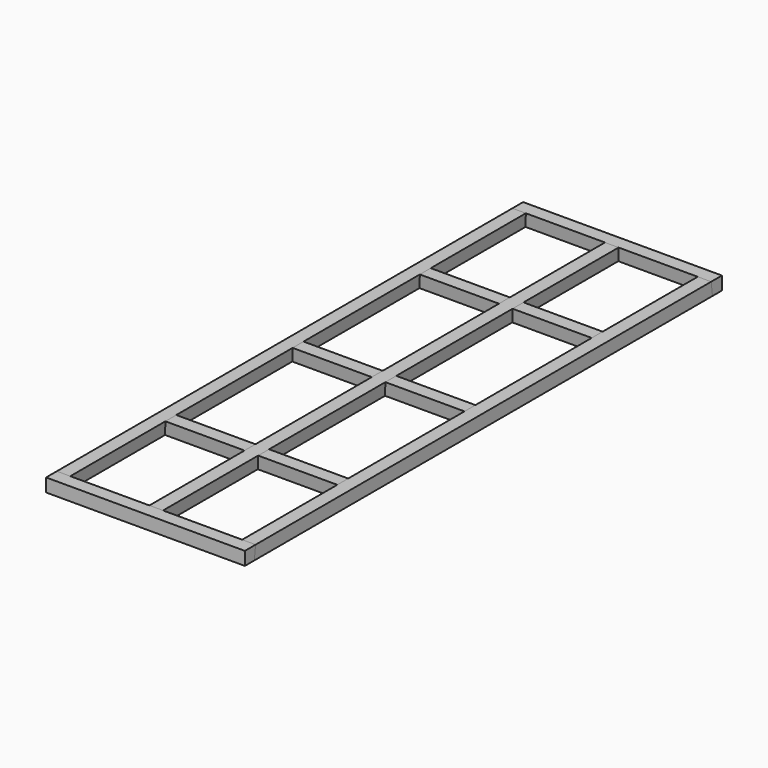
from build123d import *

# Parameters (mm, degrees)
F1_DEPTH  = 1800
F3_DEPTH  = 800
F4_DEPTH  = 600
F5_DEPTH  = 600
F6_DEPTH  = 800
F7_DEPTH  = 600
F8_DEPTH  = 1900
F9_DEPTH  = 1900
F10_DEPTH = 1900
F11_DEPTH = 800
F12_DEPTH = 1800
F13_DEPTH = 600


with BuildPart() as f1:
    # F0 (on Front) → F1 (new body)
    with BuildSketch(Plane.XZ):
        Polygon((-134.7514528915, 259.4524627924), (-170.3375428915, 259.4524627924), (-170.3375428915, 254.4524627924), (-130.3375428915, 254.4524627924), (-125.3375428915, 294.4524627924), (104.6624571085, 294.4524627924), (109.6624571085, 254.4524627924), (129.6624571085, 254.4524627924), (129.6624571085, 259.4524627924), (114.0763682012, 259.4524627924), (109.0763682012, 299.4524627924), (-129.7514517988, 299.4524627924), align=None)
        Polygon((-170.3375428915, 299.4524627924), (-170.3375428915, 259.4524627924), (-134.7514528915, 259.4524627924), (-129.7514517988, 299.4524627924), align=None)
        Polygon((150.2485460158, 299.4524627924), (109.0763682012, 299.4524627924), (114.0763682012, 259.4524627924), (129.6624571085, 259.4524627924), (145.2485460158, 259.4524627924), align=None)
        Polygon((389.0763660158, 299.4524627924), (150.2485460158, 299.4524627924), (145.2485460158, 259.4524627924), (129.6624571085, 259.4524627924), (129.6624571085, 254.4524627924), (149.6624571085, 254.4524627924), (154.6624571085, 294.4524627924), (384.6624571085, 294.4524627924), (389.6624571085, 254.4524627924), (429.6624571085, 254.4524627924), (429.6624571085, 259.4524627924), (394.0763671085, 259.4524627924), align=None)
        Polygon((429.6624571085, 299.4524627924), (389.0763660158, 299.4524627924), (394.0763671085, 259.4524627924), (429.6624571085, 259.4524627924), align=None)
    extrude(amount=-F1_DEPTH)

    # F2 (on face) → F3 (cut)
    with BuildSketch(Plane(origin=(-170.3375428915, 0, 0), x_dir=(0, -1, 0), z_dir=(-1, 0, 0))):
        Polygon((-1800, 254.4524627924), (-1760, 254.4524627924), (-1759.375, 259.4524627924), (-1755, 294.4524627924), (-1760.0389110927, 294.4524627924), (-1764.4139110927, 259.4524627924), (-1800, 259.4524627924), align=None)
    extrude(amount=-F3_DEPTH, mode=Mode.SUBTRACT)

    # F2 (on face) → F4 (join)
    with BuildSketch(Plane(origin=(-170.3375428915, 0, 0), x_dir=(0, -1, 0), z_dir=(-1, 0, 0))):
        Polygon((-1760.0389110927, 294.4524627924), (-1759.4139110927, 299.4524627924), (-1800, 299.4524627924), (-1800, 259.4524627924), (-1764.4139110927, 259.4524627924), align=None)
    extrude(amount=-F4_DEPTH)

    # F2 (on face) → F5 (join)
    with BuildSketch(Plane(origin=(-170.3375428915, 0, 0), x_dir=(0, -1, 0), z_dir=(-1, 0, 0))):
        Polygon((-1800, 254.4524627924), (-1760, 254.4524627924), (-1759.375, 259.4524627924), (-1755, 294.4524627924), (-1760.0389110927, 294.4524627924), (-1764.4139110927, 259.4524627924), (-1800, 259.4524627924), align=None)
    extrude(amount=-F5_DEPTH)

    # F2 (on face) → F6 (cut)
    with BuildSketch(Plane(origin=(-170.3375428915, 0, 0), x_dir=(0, -1, 0), z_dir=(-1, 0, 0))):
        Polygon((-1400, 254.4524627924), (-1360, 254.4524627924), (-1355, 294.4524627924), (-1360.0389110927, 294.4524627924), (-1364.4139110927, 259.4524627924), (-1395.5860889073, 259.4524627924), (-1399.9610889073, 294.4524627924), (-1405, 294.4524627924), (-1400.625, 259.4524627924), align=None)
        Polygon((-880.0389110927, 294.4524627924), (-879.4139110927, 299.4524627924), (-900, 299.4524627924), (-920.5860889073, 299.4524627924), (-919.9610889073, 294.4524627924), (-915.5860889073, 259.4524627924), (-900, 259.4524627924), (-884.4139110927, 259.4524627924), align=None)
        Polygon((-900, 254.4524627924), (-880, 254.4524627924), (-879.375, 259.4524627924), (-875, 294.4524627924), (-880.0389110927, 294.4524627924), (-884.4139110927, 259.4524627924), (-900, 259.4524627924), (-915.5860889073, 259.4524627924), (-919.9610889073, 294.4524627924), (-925, 294.4524627924), (-920, 254.4524627924), align=None)
        Polygon((-400.0389110927, 294.4524627924), (-399.4139110927, 299.4524627924), (-440.5860889073, 299.4524627924), (-439.9610889073, 294.4524627924), (-435.5860889073, 259.4524627924), (-404.4139110927, 259.4524627924), align=None)
        Polygon((-35.5860889073, 259.4524627924), (0, 259.4524627924), (0, 299.4524627924), (-40.5860889073, 299.4524627924), (-39.9610889073, 294.4524627924), align=None)
    extrude(amount=-F6_DEPTH, mode=Mode.SUBTRACT)

    # F2 (on face) → F7 (join)
    with BuildSketch(Plane(origin=(-170.3375428915, 0, 0), x_dir=(0, -1, 0), z_dir=(-1, 0, 0))):
        Polygon((-40, 254.4524627924), (0, 254.4524627924), (0, 259.4524627924), (-35.5860889073, 259.4524627924), (-39.9610889073, 294.4524627924), (-45, 294.4524627924), (-40.625, 259.4524627924), align=None)
        Polygon((-40, 254.4524627924), (0, 254.4524627924), (0, 259.4524627924), (-35.5860889073, 259.4524627924), (-39.9610889073, 294.4524627924), (-45, 294.4524627924), (-40.625, 259.4524627924), align=None)
        Polygon((-440, 254.4524627924), (-400, 254.4524627924), (-399.375, 259.4524627924), (-395, 294.4524627924), (-400.0389110927, 294.4524627924), (-404.4139110927, 259.4524627924), (-435.5860889073, 259.4524627924), (-439.9610889073, 294.4524627924), (-445, 294.4524627924), (-440.625, 259.4524627924), align=None)
        Polygon((-440, 254.4524627924), (-400, 254.4524627924), (-399.375, 259.4524627924), (-395, 294.4524627924), (-400.0389110927, 294.4524627924), (-404.4139110927, 259.4524627924), (-435.5860889073, 259.4524627924), (-439.9610889073, 294.4524627924), (-445, 294.4524627924), (-440.625, 259.4524627924), align=None)
        Polygon((-440, 254.4524627924), (-400, 254.4524627924), (-399.375, 259.4524627924), (-395, 294.4524627924), (-400.0389110927, 294.4524627924), (-404.4139110927, 259.4524627924), (-435.5860889073, 259.4524627924), (-439.9610889073, 294.4524627924), (-445, 294.4524627924), (-440.625, 259.4524627924), align=None)
        Polygon((-900, 254.4524627924), (-880, 254.4524627924), (-879.375, 259.4524627924), (-875, 294.4524627924), (-880.0389110927, 294.4524627924), (-884.4139110927, 259.4524627924), (-900, 259.4524627924), (-915.5860889073, 259.4524627924), (-919.9610889073, 294.4524627924), (-925, 294.4524627924), (-920, 254.4524627924), align=None)
        Polygon((-880.0389110927, 294.4524627924), (-879.4139110927, 299.4524627924), (-900, 299.4524627924), (-920.5860889073, 299.4524627924), (-919.9610889073, 294.4524627924), (-915.5860889073, 259.4524627924), (-900, 259.4524627924), (-884.4139110927, 259.4524627924), align=None)
        Polygon((-900, 254.4524627924), (-880, 254.4524627924), (-879.375, 259.4524627924), (-875, 294.4524627924), (-880.0389110927, 294.4524627924), (-884.4139110927, 259.4524627924), (-900, 259.4524627924), (-915.5860889073, 259.4524627924), (-919.9610889073, 294.4524627924), (-925, 294.4524627924), (-920, 254.4524627924), align=None)
        Polygon((-900, 254.4524627924), (-880, 254.4524627924), (-879.375, 259.4524627924), (-875, 294.4524627924), (-880.0389110927, 294.4524627924), (-884.4139110927, 259.4524627924), (-900, 259.4524627924), (-915.5860889073, 259.4524627924), (-919.9610889073, 294.4524627924), (-925, 294.4524627924), (-920, 254.4524627924), align=None)
        Polygon((-1400, 254.4524627924), (-1360, 254.4524627924), (-1355, 294.4524627924), (-1360.0389110927, 294.4524627924), (-1364.4139110927, 259.4524627924), (-1395.5860889073, 259.4524627924), (-1399.9610889073, 294.4524627924), (-1405, 294.4524627924), (-1400.625, 259.4524627924), align=None)
        Polygon((-1360.0389110927, 294.4524627924), (-1359.4139110927, 299.4524627924), (-1400.5860889073, 299.4524627924), (-1399.9610889073, 294.4524627924), (-1395.5860889073, 259.4524627924), (-1364.4139110927, 259.4524627924), align=None)
        Polygon((-1400, 254.4524627924), (-1360, 254.4524627924), (-1355, 294.4524627924), (-1360.0389110927, 294.4524627924), (-1364.4139110927, 259.4524627924), (-1395.5860889073, 259.4524627924), (-1399.9610889073, 294.4524627924), (-1405, 294.4524627924), (-1400.625, 259.4524627924), align=None)
    extrude(amount=-F7_DEPTH)

    # F0 (on Front) → F8 (cut)
    with BuildSketch(Plane.XZ):
        Polygon((-170.3375428915, 299.4524627924), (-170.3375428915, 259.4524627924), (-134.7514528915, 259.4524627924), (-129.7514517988, 299.4524627924), align=None)
    extrude(amount=-F8_DEPTH, mode=Mode.SUBTRACT)

    # F0 (on Front) → F9 (cut)
    with BuildSketch(Plane.XZ):
        Polygon((150.2485460158, 299.4524627924), (109.0763682012, 299.4524627924), (114.0763682012, 259.4524627924), (129.6624571085, 259.4524627924), (145.2485460158, 259.4524627924), align=None)
    extrude(amount=-F9_DEPTH, mode=Mode.SUBTRACT)

    # F0 (on Front) → F10 (cut)
    with BuildSketch(Plane.XZ):
        Polygon((429.6624571085, 299.4524627924), (389.0763660158, 299.4524627924), (394.0763671085, 259.4524627924), (429.6624571085, 259.4524627924), align=None)
    extrude(amount=-F10_DEPTH, mode=Mode.SUBTRACT)

    # F2 (on face) → F11 (cut)
    with BuildSketch(Plane(origin=(-170.3375428915, 0, 0), x_dir=(0, -1, 0), z_dir=(-1, 0, 0))):
        Polygon((-1760.0389110927, 294.4524627924), (-1759.4139110927, 299.4524627924), (-1800, 299.4524627924), (-1800, 259.4524627924), (-1764.4139110927, 259.4524627924), align=None)
        Polygon((-1360.0389110927, 294.4524627924), (-1359.4139110927, 299.4524627924), (-1400.5860889073, 299.4524627924), (-1399.9610889073, 294.4524627924), (-1395.5860889073, 259.4524627924), (-1364.4139110927, 259.4524627924), align=None)
        Polygon((-880.0389110927, 294.4524627924), (-879.4139110927, 299.4524627924), (-900, 299.4524627924), (-920.5860889073, 299.4524627924), (-919.9610889073, 294.4524627924), (-915.5860889073, 259.4524627924), (-900, 259.4524627924), (-884.4139110927, 259.4524627924), align=None)
    extrude(amount=-F11_DEPTH, mode=Mode.SUBTRACT)


with BuildPart() as f12:
    # F0 (on Front) → F12 (new body)
    with BuildSketch(Plane.XZ):
        Polygon((-170.3375428915, 299.4524627924), (-170.3375428915, 259.4524627924), (-134.7514528915, 259.4524627924), (-129.7514517988, 299.4524627924), align=None)
    extrude(amount=-F12_DEPTH)


with BuildPart() as f12b:
    # F0 (on Front) → F12, piece 2 (new body)
    with BuildSketch(Plane.XZ):
        Polygon((150.2485460158, 299.4524627924), (109.0763682012, 299.4524627924), (114.0763682012, 259.4524627924), (129.6624571085, 259.4524627924), (145.2485460158, 259.4524627924), align=None)
    extrude(amount=-F12_DEPTH)


with BuildPart() as f12c:
    # F0 (on Front) → F12, piece 3 (new body)
    with BuildSketch(Plane.XZ):
        Polygon((429.6624571085, 299.4524627924), (389.0763660158, 299.4524627924), (394.0763671085, 259.4524627924), (429.6624571085, 259.4524627924), align=None)
    extrude(amount=-F12_DEPTH)


with BuildPart() as f13:
    # F2 (on face) → F13 (new body)
    with BuildSketch(Plane(origin=(-170.3375428915, 0, 0), x_dir=(0, -1, 0), z_dir=(-1, 0, 0))):
        Polygon((-1760.0389110927, 294.4524627924), (-1759.4139110927, 299.4524627924), (-1800, 299.4524627924), (-1800, 259.4524627924), (-1764.4139110927, 259.4524627924), align=None)
    extrude(amount=-F13_DEPTH)


with BuildPart() as f13b:
    # F2 (on face) → F13, piece 2 (new body)
    with BuildSketch(Plane(origin=(-170.3375428915, 0, 0), x_dir=(0, -1, 0), z_dir=(-1, 0, 0))):
        Polygon((-1360.0389110927, 294.4524627924), (-1359.4139110927, 299.4524627924), (-1400.5860889073, 299.4524627924), (-1399.9610889073, 294.4524627924), (-1395.5860889073, 259.4524627924), (-1364.4139110927, 259.4524627924), align=None)
    extrude(amount=-F13_DEPTH)

    # F14: cut F12c, F12b, F12
    add(f12c.part, mode=Mode.SUBTRACT)
    add(f12b.part, mode=Mode.SUBTRACT)
    add(f12.part, mode=Mode.SUBTRACT)


with BuildPart() as f13c:
    # F2 (on face) → F13, piece 3 (new body)
    with BuildSketch(Plane(origin=(-170.3375428915, 0, 0), x_dir=(0, -1, 0), z_dir=(-1, 0, 0))):
        Polygon((-880.0389110927, 294.4524627924), (-879.4139110927, 299.4524627924), (-900, 299.4524627924), (-920.5860889073, 299.4524627924), (-919.9610889073, 294.4524627924), (-915.5860889073, 259.4524627924), (-900, 259.4524627924), (-884.4139110927, 259.4524627924), align=None)
    extrude(amount=-F13_DEPTH)

    # F14: cut F12c, F12b, F12
    add(f12c.part, mode=Mode.SUBTRACT)
    add(f12b.part, mode=Mode.SUBTRACT)
    add(f12.part, mode=Mode.SUBTRACT)


with BuildPart() as f13d:
    # F2 (on face) → F13, piece 4 (new body)
    with BuildSketch(Plane(origin=(-170.3375428915, 0, 0), x_dir=(0, -1, 0), z_dir=(-1, 0, 0))):
        Polygon((-400.0389110927, 294.4524627924), (-399.4139110927, 299.4524627924), (-440.5860889073, 299.4524627924), (-439.9610889073, 294.4524627924), (-435.5860889073, 259.4524627924), (-404.4139110927, 259.4524627924), align=None)
    extrude(amount=-F13_DEPTH)

    # F14: cut F12c, F12b, F12
    add(f12c.part, mode=Mode.SUBTRACT)
    add(f12b.part, mode=Mode.SUBTRACT)
    add(f12.part, mode=Mode.SUBTRACT)


with BuildPart() as f13e:
    # F2 (on face) → F13, piece 5 (new body)
    with BuildSketch(Plane(origin=(-170.3375428915, 0, 0), x_dir=(0, -1, 0), z_dir=(-1, 0, 0))):
        Polygon((-35.5860889073, 259.4524627924), (0, 259.4524627924), (0, 299.4524627924), (-40.5860889073, 299.4524627924), (-39.9610889073, 294.4524627924), align=None)
    extrude(amount=-F13_DEPTH)


with BuildPart() as f1_1:
    add(f1.part)

    # F15: cut F13e
    add(f13e.part, mode=Mode.SUBTRACT)


with BuildPart() as f12b_1:
    add(f12b.part)

    # F15: cut F13e
    add(f13e.part, mode=Mode.SUBTRACT)

    # F16: cut F13e, F13
    add(f13e.part, mode=Mode.SUBTRACT)
    add(f13.part, mode=Mode.SUBTRACT)


with BuildPart() as f12c_1:
    add(f12c.part)

    # F16: cut F13e, F13
    add(f13e.part, mode=Mode.SUBTRACT)
    add(f13.part, mode=Mode.SUBTRACT)


with BuildPart() as f12_1:
    add(f12.part)

    # F16: cut F13e, F13
    add(f13e.part, mode=Mode.SUBTRACT)
    add(f13.part, mode=Mode.SUBTRACT)


solid = Compound([f13.part, f13b.part, f13c.part, f13d.part, f13e.part, f12b_1.part, f12c_1.part, f12_1.part])
